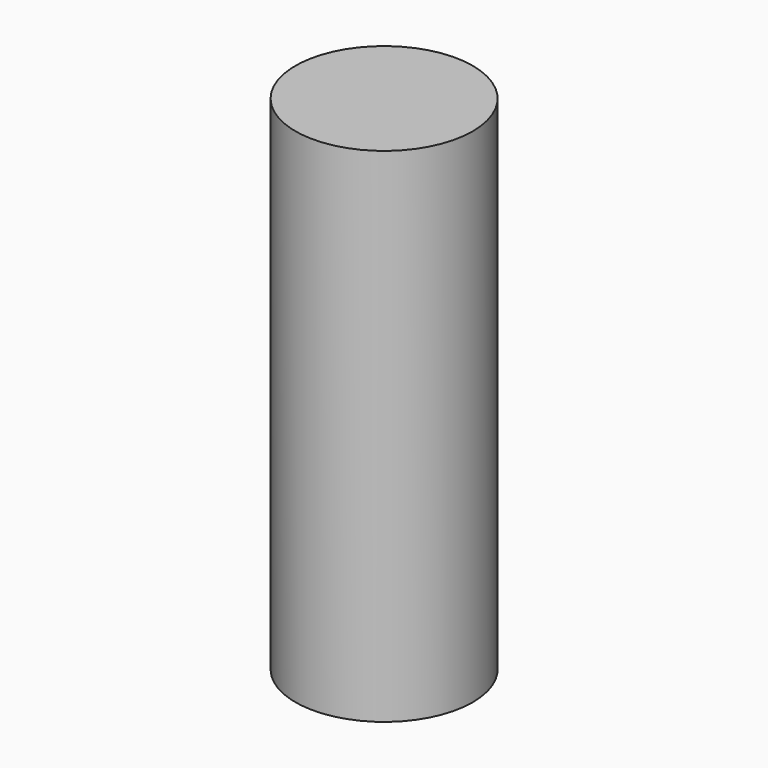
from build123d import *

# Parameters (mm, degrees)
F2_DEPTH = 5
F3_R     = 1.5875
F4_DEPTH = 9
F5_DEPTH = 25


with BuildPart() as f2:
    # F1 (on Front) → F2 (new body, symmetric)
    with BuildSketch(Plane.XZ):
        Polygon((1.5875, -8), (1.5875, 0), (-1.5875, 0), (-1.5875, -8), (-8.25, -8), (-8.25, -19.5), (8.25, -19.5), (8.25, -8), align=None)
    extrude(amount=F2_DEPTH, both=True)

    # F3 (on Top) → F4 (join)
    with BuildSketch(Plane.XY):
        Circle(F3_R)
    extrude(amount=F4_DEPTH)

    # F5 (cut): a face of the model
    f5_faces = [f2.faces().sort_by_distance(p)[0] for p in [
        (0, -5, -12.5989425982),
    ]]
    extrude(f5_faces, amount=-F5_DEPTH, mode=Mode.SUBTRACT)


solid = f2.part
